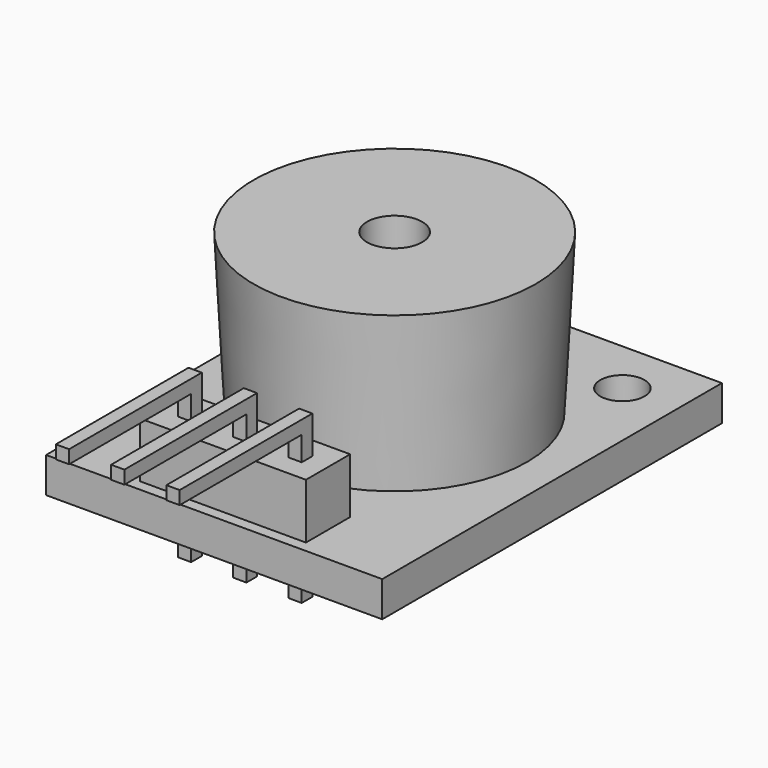
from build123d import *

# Parameters (mm, degrees)
F0_W      = 15.2
F0_H      = 19.2
F1_DEPTH  = 1.6
F2_R      = 6
F3_DEPTH  = 7.2
F3_TAPER  = -3
F4_R      = 1.25
F5_DEPTH  = 3.5
F6_R      = 1
F7_DEPTH  = 25
F8_W      = 7.5
F8_H      = 2.5
F9_DEPTH  = 2.5
F11_W     = 0.6
F11_H     = 0.6
F12_DEPTH = 7.3
F13_W     = 0.6
F13_H     = 0.6
F14_DEPTH = 7.5


with BuildPart() as f1:
    # F0 (on Top) → F1 (new body)
    with BuildSketch(Plane.XY):
        Rectangle(F0_W, F0_H)
    extrude(amount=F1_DEPTH)

    # F2 (on face) → F3 (join)
    with BuildSketch(Plane.XY.offset(1.6)):
        with Locations((0, 0.6)):
            Circle(F2_R)
    extrude(amount=F3_DEPTH, taper=F3_TAPER)

    # F4 (on face) → F5 (cut)
    with BuildSketch(Plane.XY.offset(8.8)):
        with Locations((0, 0.6)):
            Circle(F4_R)
    extrude(amount=-F5_DEPTH, mode=Mode.SUBTRACT)

    # F6 (on face) → F7 (cut)
    with BuildSketch(Plane.XY.offset(1.6)):
        with Locations((-5.1, 7.1)):
            Circle(F6_R)
        with Locations((5.1, 7.1)):
            Circle(F6_R)
    extrude(amount=-F7_DEPTH, mode=Mode.SUBTRACT)

    # F8 (on face) → F9 (join)
    with BuildSketch(Plane.XY.offset(1.6)):
        with Locations((0, -7.85)):
            Rectangle(F8_W, F8_H)
    extrude(amount=F9_DEPTH)

    # F11 (on offset) → F12 (join)
    with BuildSketch(Plane.XY.offset(-1.5)):
        with Locations((0, -7.85)):
            Rectangle(F11_W, F11_H)
        with Locations((2.4999999441, -7.85)):
            Rectangle(F11_W, F11_H)
        with Locations((-2.4999999441, -7.85)):
            Rectangle(F11_W, F11_H)
        with Locations((0, 3.95)):
            Rectangle(F11_W, F11_H)
        with Locations((0, -2.45)):
            Rectangle(F11_W, F11_H)
    extrude(amount=F12_DEPTH)

    # F13 (on face) → F14 (join)
    with BuildSketch(Plane(origin=(0, -7.55, 0), x_dir=(-1, 0, 0), z_dir=(0, 1, 0))):
        with Locations((2.4999999441, 5.5)):
            Rectangle(F13_W, F13_H)
        Polygon((0.3, 5.8), (0, 5.8), (-0.3, 5.8), (-0.3, 5.2), (0, 5.2), (0.3, 5.2), align=None)
        with Locations((-2.4999999441, 5.5)):
            Rectangle(F13_W, F13_H)
    extrude(amount=-F14_DEPTH)


solid = f1.part
